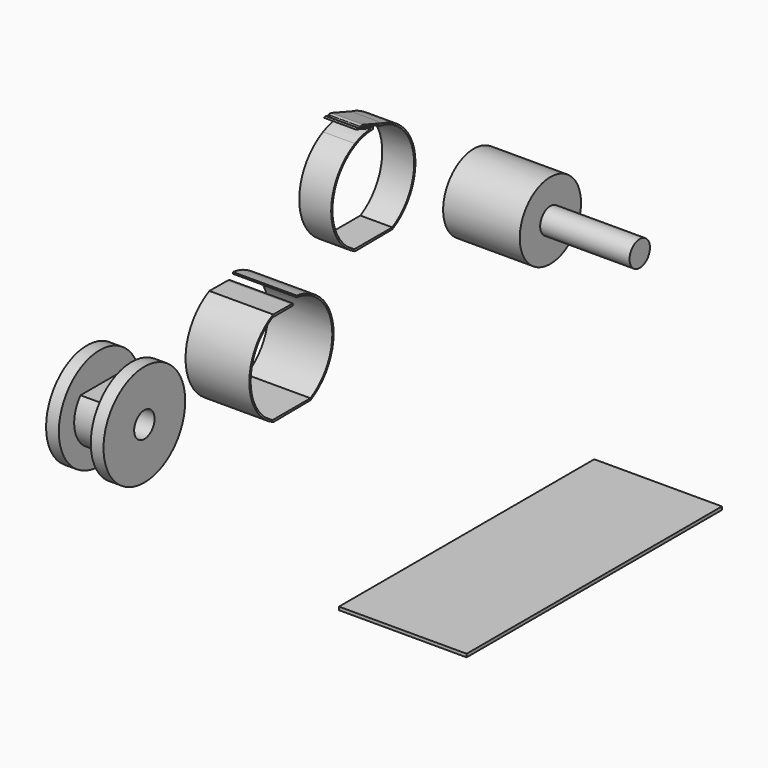
from build123d import *

# Parameters (mm, degrees)
F1_DEPTH  = 25
F2_R      = 40
F3_DEPTH  = 10
F4_R      = 40
F5_DEPTH  = 10
F6_W      = 15
F6_H      = 6.3930185955
F7_DEPTH  = 41.375401655
F8_DEPTH  = 50
F9_R      = 10
F10_DEPTH = 45
F0_R      = 30
F11_DEPTH = 60
F12_R     = 10
F13_DEPTH = 70
F0_W      = 250
F0_H      = 2.5
F14_DEPTH = 100
F15_DEPTH = 5
F16_DEPTH = 25


with BuildPart() as f1:
    # F0 (on Right) → F1 (new body)
    with BuildSketch(Plane.YZ):
        with BuildLine():
            Line((18.7907296371, 16.4896476526), (-18.7907296371, 16.4896476526))
            ThreePointArc((-18.7907296371, 16.4896476526), (0, -25), (18.7907296371, 16.4896476526))
        make_face()
    extrude(amount=F1_DEPTH)

    # F2 (on face) → F3 (join)
    with BuildSketch(Plane.YZ.offset(25)):
        Circle(F2_R)
        with BuildLine():
            Line((-18.7907296371, 16.4896476526), (18.7907296371, 16.4896476526))
            ThreePointArc((18.7907296371, 16.4896476526), (0, -25), (-18.7907296371, 16.4896476526))
        make_face(mode=Mode.SUBTRACT)
        with BuildLine():
            ThreePointArc((-18.7907296371, 16.4896476526), (0, -25), (18.7907296371, 16.4896476526))
            Line((18.7907296371, 16.4896476526), (-18.7907296371, 16.4896476526))
        make_face()
    extrude(amount=F3_DEPTH)

    # F4 (on face) → F5 (join)
    with BuildSketch(Plane(origin=(0, 0, 0), x_dir=(0, -1, 0), z_dir=(-1, 0, 0))):
        Circle(F4_R)
        with BuildLine():
            Line((-18.7907296371, 16.4896476526), (18.7907296371, 16.4896476526))
            ThreePointArc((18.7907296371, 16.4896476526), (0, -25), (-18.7907296371, 16.4896476526))
        make_face(mode=Mode.SUBTRACT)
        with BuildLine():
            ThreePointArc((-18.7907296371, 16.4896476526), (0, -25), (18.7907296371, 16.4896476526))
            Line((18.7907296371, 16.4896476526), (-18.7907296371, 16.4896476526))
        make_face()
    extrude(amount=F5_DEPTH)

    # F6 (on face) → F7 (cut, through all)
    with BuildSketch(Plane.XY.offset(16.4896476526)):
        with Locations((12.5, 5.5942203393)):
            Rectangle(F6_W, F6_H)
    extrude(amount=-F7_DEPTH, mode=Mode.SUBTRACT)

    # F9 (on face) → F10 (cut, through all)
    with BuildSketch(Plane.YZ.offset(35)):
        Circle(F9_R)
    extrude(amount=-F10_DEPTH, mode=Mode.SUBTRACT)


with BuildPart() as f8:
    # F0 (on Right) → F8 (new body)
    with BuildSketch(Plane.YZ):
        with BuildLine():
            Line((125.3012120724, 36.9923449587), (107.3829577751, 37.1550624133))
            ThreePointArc((107.3829577751, 37.1550624133), (84.0512120724, 0), (107.3829577751, -37.1550624133))
            Line((107.3829577751, -37.1550624133), (143.8912733171, -36.8235267583))
            ThreePointArc((143.8912733171, -36.8235267583), (165.4293379866, 9.5548945892), (125.3012120724, 41.25))
            Line((125.3012120724, 41.25), (125.3012120724, 36.9923449587))
        make_face()
        with BuildLine():
            ThreePointArc((106.7111508276, -35.4176456433), (85.3012120724, 0), (106.7111508276, 35.4176456433))
            Line((106.7111508276, 35.4176456433), (126.6936709107, 35.4176456433))
            Line((126.6936709107, 35.4176456433), (126.6936709107, 39.9757558826))
            ThreePointArc((126.6936709107, 39.9757558826), (164.2995008249, 8.8956997685), (143.8912733171, -35.4176456433))
            Line((143.8912733171, -35.4176456433), (106.7111508276, -35.4176456433))
        make_face(mode=Mode.SUBTRACT)
    extrude(amount=F8_DEPTH)

    # F15 (cut): a face of the model
    f15_faces = [f8.faces().sort_by_distance(p)[0] for p in [
        (25, 125.3012120724, 39.1211724794),
    ]]
    extrude(f15_faces, amount=-F15_DEPTH, mode=Mode.SUBTRACT)


with BuildPart() as f11:
    # F0 (on Right) → F11 (new body)
    with BuildSketch(Plane.YZ):
        with Locations((366.3434386253, 0)):
            Circle(F0_R)
    extrude(amount=F11_DEPTH)

    # F12 (on face) → F13 (join)
    with BuildSketch(Plane.YZ.offset(60)):
        with Locations((366.3434386253, 0)):
            Circle(F12_R)
    extrude(amount=F13_DEPTH)


with BuildPart() as f14:
    # F0 (on Right) → F14 (new body)
    with BuildSketch(Plane.YZ):
        with Locations((359.3224585056, -233.4000903368)):
            Rectangle(F0_W, F0_H)
    extrude(amount=F14_DEPTH)


with BuildPart() as f16:
    # F0 (on Right) → F16 (new body)
    with BuildSketch(Plane.YZ):
        with BuildLine():
            ThreePointArc((234.6268562596, 105.6420740218), (226.4942262259, 104.4148265861), (218.7667309573, 101.5985126105))
            ThreePointArc((218.7667309573, 101.5985126105), (195.4349852545, 64.4434501972), (218.7667309573, 27.2883877839))
            Line((218.7667309573, 27.2883877839), (255.2750464993, 27.6199234389))
            ThreePointArc((255.2750464993, 27.6199234389), (277.6449726535, 69.3262703123), (246.0976726998, 104.6051709653))
            Line((246.0976726998, 104.6051709653), (226.4478235442, 111.5422657757))
            Line((226.4478235442, 111.5422657757), (223.7624526024, 111.4095747471))
            Line((223.7624526024, 111.4095747471), (242.4257096136, 104.8207820123))
            Line((242.4257096136, 104.8207820123), (242.4257096136, 104.0293578391))
            ThreePointArc((242.4257096136, 104.0293578391), (276.1106118618, 71.1977056427), (255.2750464993, 29.0258045539))
            Line((255.2750464993, 29.0258045539), (218.0949240098, 29.0258045539))
            ThreePointArc((218.0949240098, 29.0258045539), (197.8200284979, 73.904694106), (236.4543539259, 104.4427853066))
            Line((236.4543539259, 104.4427853066), (236.4543539259, 106.1006423954))
            Line((236.4543539259, 106.1006423954), (221.4163988829, 111.4095747471))
            Line((221.4163988829, 111.4095747471), (219.422552045, 111.1006011765))
            Line((219.422552045, 111.1006011765), (234.6268562596, 105.6420740218))
        make_face()
    extrude(amount=F16_DEPTH)


solid = Compound([f1.part, f8.part, f11.part, f14.part, f16.part])
